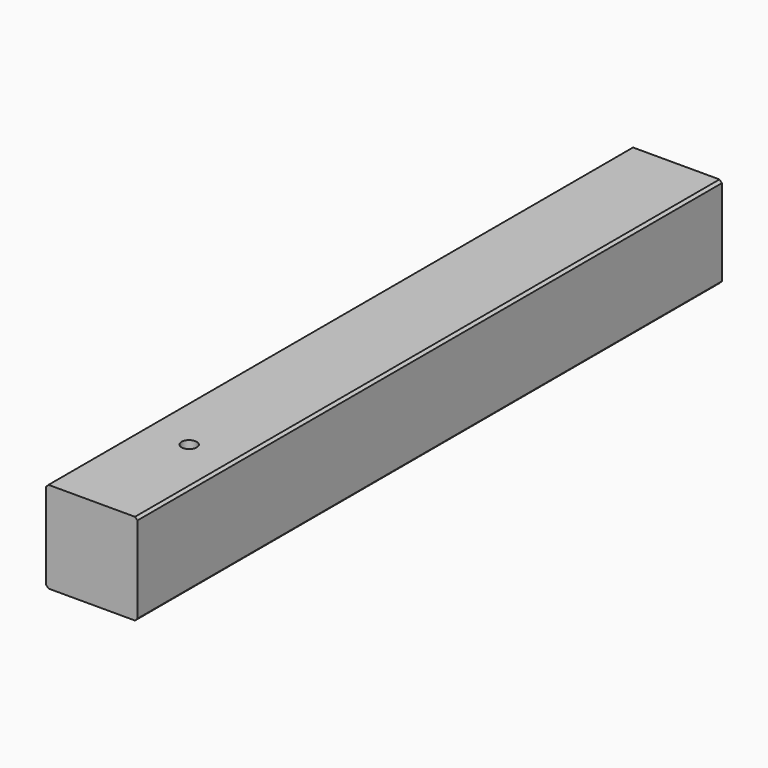
from build123d import *

# Parameters (mm, degrees)
F0_W     = 9.525
F0_H     = 9.525
F1_DEPTH = 76.2
F2_SIZE  = 0.254
F4_DEPTH = 25.4


with BuildPart() as f1:
    # F0 (on Front) → F1 (new body)
    with BuildSketch(Plane.XZ):
        Rectangle(F0_W, F0_H)
    extrude(amount=F1_DEPTH)

    # F2
    f2_edges = [f1.edges().sort_by_distance(p)[0] for p in [
        (-4.7625, -38.1, 4.7625),
        (-4.7625, -38.1, -4.7625),
        (4.7625, -38.1, 4.7625),
        (4.7625, -38.1, -4.7625),
    ]]
    chamfer(f2_edges, length=F2_SIZE)

    # F3 (on face) → F4 (cut)
    with BuildSketch(Plane.XY.offset(4.7625)):
        with BuildLine():
            ThreePointArc((0, -64.29375), (0.561266, -64.061266), (0.79375, -63.5))
            ThreePointArc((0.79375, -63.5), (-0.561266, -62.938734), (0, -64.29375))
        make_face()
    extrude(amount=-F4_DEPTH, mode=Mode.SUBTRACT)


solid = f1.part
